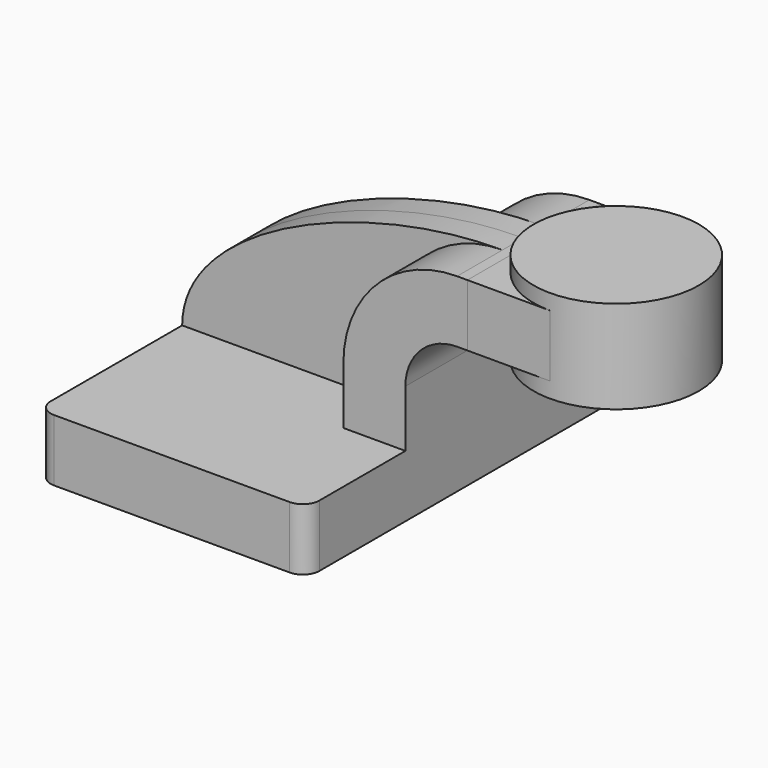
from build123d import *

# Parameters (mm, degrees)
F1_DEPTH = 63.5
F2_DEPTH = 25.4
F3_DEPTH = 7.9375
F5_DEPTH = 25.4
F6_R     = 5.08


with BuildPart() as f1:
    # F0 (on Front) → F1 (new body, symmetric)
    with BuildSketch(Plane.XZ):
        Polygon((41.275, -9.525), (41.275, 9.525), (22.225, 9.525), (-41.275, 9.525), (-41.275, -9.525), align=None)
    extrude(amount=F1_DEPTH, both=True)

    # F0 (on Front) → F2 (join, symmetric)
    with BuildSketch(Plane.XZ):
        with BuildLine():
            Line((22.225, 9.525), (41.275, 9.525))
            Line((41.275, 9.525), (41.275, 27.0002))
            ThreePointArc((41.275, 27.0002), (45.9246798487, 38.2255201513), (57.15, 42.8752))
            Line((57.15, 42.8752), (60.325, 42.8752))
            Line((60.325, 42.8752), (60.325, 61.9252))
            Line((60.325, 61.9252), (57.15, 61.9252))
            ThreePointArc((57.15, 61.9252), (32.4542956671, 51.6959043329), (22.225, 27.0002))
            Line((22.225, 27.0002), (22.225, 9.525))
        make_face()
    extrude(amount=F2_DEPTH, both=True)

    # F0 (on Front) → F3 (join, symmetric)
    with BuildSketch(Plane.XZ):
        with BuildLine():
            Line((-41.275, 9.525), (22.225, 9.525))
            Line((22.225, 9.525), (22.225, 27.0002))
            ThreePointArc((22.225, 27.0002), (32.4542956671, 51.6959043329), (57.15, 61.9252))
            add(Edge.make_bspline(
                [(-41.275, 9.525), (-41.1688387394, 38.7399420142), (14.0499072149, 62.0901808143), (57.15, 61.9252)],
                knots=[0, 0, 0, 0, 111.5045361635, 111.5045361635, 111.5045361635, 111.5045361635], degree=3))
        make_face()
    extrude(amount=F3_DEPTH, both=True)

    # F0 (on Front) → F4 (revolve)
    with BuildSketch(Plane.XZ):
        Polygon((85.725, 61.9252), (85.725, 42.8752), (85.725, 38.1), (111.125, 38.1), (111.125, 66.675), (85.725, 66.675), align=None)
    revolve(axis=Axis((85.725, 0, 52.3875), (0, 0, 1)))


with BuildPart() as f5:
    # F5 (new): faces of the model
    f5_faces = [f1.part.faces().sort_by_distance(p)[0] for p in [
        (60.325, 12.7, 52.4002),
        (60.325, -12.7, 52.4002),
    ]]
    extrude(f5_faces, amount=F5_DEPTH)


with BuildPart() as f1_1:
    add(f1.part)

    # F6
    f6_edges = [f1_1.edges().sort_by_distance(p)[0] for p in [
        (-41.275, -63.5, 0),
        (41.275, -63.5, 0),
        (41.275, 63.5, 0),
        (-41.275, 63.5, 0),
    ]]
    fillet(f6_edges, radius=F6_R)


solid = Compound([f5.part, f1_1.part])
